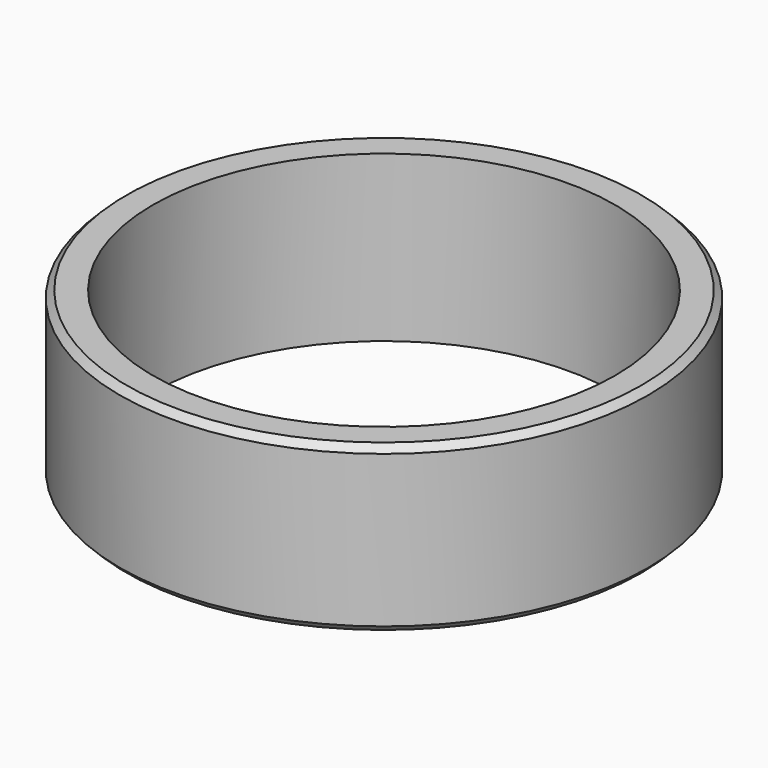
from build123d import *

# Parameters (mm, degrees)
CYLINDER010_R     = 7
CYLINDER010_DEPTH = 5
CYLINDER008_R     = 8
CYLINDER008_DEPTH = 5
CHAMFER006_SIZE   = 0.2


with BuildPart() as cilindro006:
    # Cylinder010 → Cylinder010 (new body)
    with BuildSketch(Plane.XY):
        Circle(CYLINDER010_R)
    extrude(amount=CYLINDER010_DEPTH)


with BuildPart() as exterior003:
    # Cylinder008 → Cylinder008 (new body)
    with BuildSketch(Plane.XY):
        Circle(CYLINDER008_R)
    extrude(amount=CYLINDER008_DEPTH)

    # Cut004: cut Cilindro006
    add(cilindro006.part, mode=Mode.SUBTRACT)

    # Chamfer006
    chamfer006_edges = [exterior003.edges().sort_by_distance(p)[0] for p in [
        (-8, 0, 5),
        (-8, 0, 0),
    ]]
    chamfer(chamfer006_edges, length=CHAMFER006_SIZE)


solid = exterior003.part
